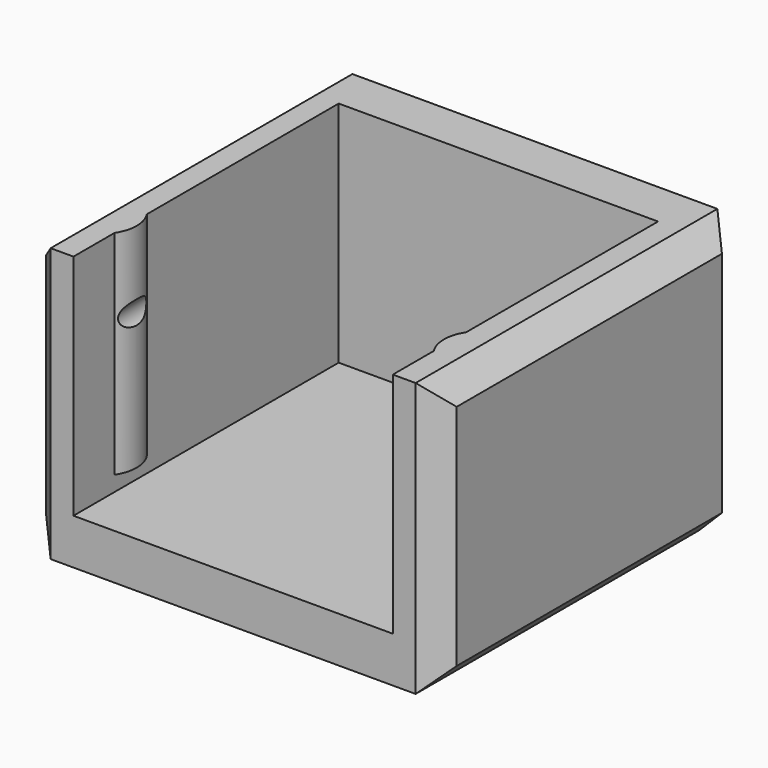
from build123d import *

# Parameters (mm, degrees)
F0_W     = 27
F0_H     = 24.8
F1_DEPTH = 18
F2_W     = 21
F2_H     = 21.8
F3_DEPTH = 15
F5_DEPTH = 14
F7_DEPTH = 10
F8_SIZE  = 1.5


with BuildPart() as f1:
    # F0 (on Top) → F1 (new body)
    with BuildSketch(Plane.XY):
        Rectangle(F0_W, F0_H)
    extrude(amount=F1_DEPTH)

    # F2 (on face) → F3 (cut)
    with BuildSketch(Plane.XY.offset(18)):
        with Locations((0, -1.5)):
            Rectangle(F2_W, F2_H)
    extrude(amount=-F3_DEPTH, mode=Mode.SUBTRACT)

    # F4 (on face) → F5 (join)
    with BuildSketch(Plane.XY.offset(18)):
        with BuildLine():
            ThreePointArc((-10.5, -9.02665), (-10.1, -7.7), (-10.5, -6.37335))
            Line((-10.5, -6.37335), (-10.5, -9.02665))
        make_face()
        with BuildLine():
            ThreePointArc((10.5, -6.37335), (10.1, -7.7), (10.5, -9.02665))
            Line((10.5, -9.02665), (10.5, -6.37335))
        make_face()
    extrude(amount=-F5_DEPTH)

    # F6 (on face) → F7 (cut)
    with BuildSketch(Plane.XZ.offset(12.4)):
        with BuildLine():
            ThreePointArc((10, 12.151472), (10.4, 13), (10, 13.848528))
            Line((10, 13.848528), (10, 12.151472))
        make_face()
        with BuildLine():
            Line((-10, 12.151472), (-10, 13.848528))
            ThreePointArc((-10, 13.848528), (-10.4, 13), (-10, 12.151472))
        make_face()
    extrude(amount=-F7_DEPTH, mode=Mode.SUBTRACT)

    # F8
    f8_edges = [f1.edges().sort_by_distance(p)[0] for p in [
        (13.5, 0, 0),
        (13.5, 0, 18),
        (-13.5, 0, 18),
        (-13.5, 0, 0),
        (-13.5, 12.4, 9),
        (0, 12.4, 0),
        (13.5, -12.4, 9),
        (-13.5, -12.4, 9),
        (13.5, 12.4, 9),
    ]]
    chamfer(f8_edges, length=F8_SIZE)


solid = f1.part
